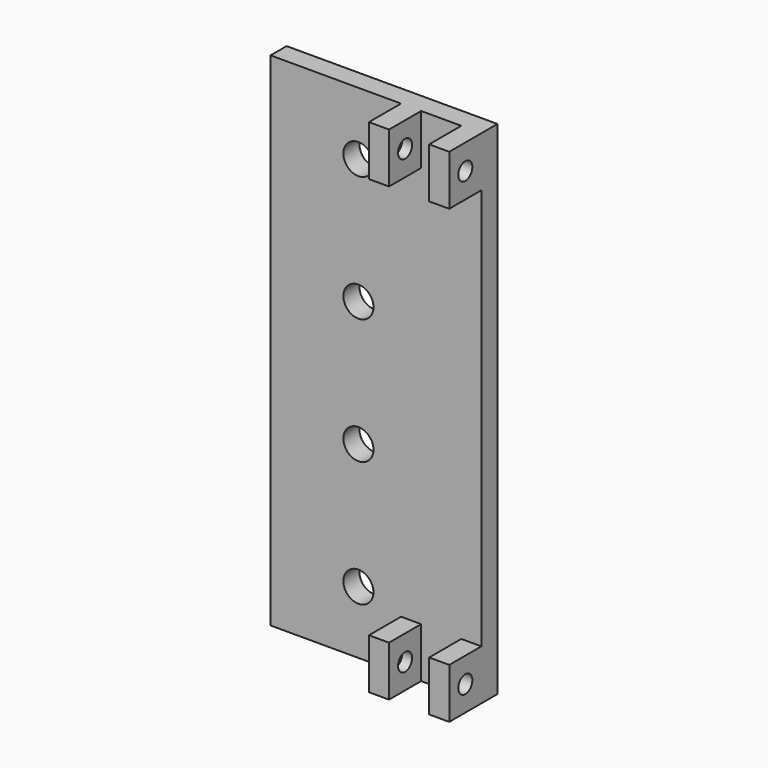
from build123d import *

# Parameters (mm, degrees)
F0_W      = 25
F0_H      = 100
F1_DEPTH  = 4
F2_W      = 4
F2_H      = 10
F3_DEPTH  = 8
F5_DEPTH  = 5
F4_R      = 3
F6_DEPTH  = 25
F8_DEPTH  = 12
F9_W      = 4
F9_H      = 100
F10_DEPTH = 8
F11_W     = 8
F11_H     = 80
F12_DEPTH = 25
F13_R     = 1.75
F14_DEPTH = 2
F15_DEPTH = 25


with BuildPart() as f1:
    # F0 (on Front) → F1 (new body)
    with BuildSketch(Plane.XZ):
        with Locations((12.5, 50)):
            Rectangle(F0_W, F0_H)
    extrude(amount=F1_DEPTH)

    # F2 (on face) → F3 (join)
    with BuildSketch(Plane.XZ.offset(4)):
        with Locations((23, 95)):
            Rectangle(F2_W, F2_H)
        with Locations((23, 5)):
            Rectangle(F2_W, F2_H)
    extrude(amount=F3_DEPTH)

    # F5 (add): a face of the model
    f5_faces = [f1.faces().sort_by_distance(p)[0] for p in [
        (0, -2, 50),
    ]]
    extrude(f5_faces, amount=F5_DEPTH)

    # F4 (on face) → F6 (cut)
    with BuildSketch(Plane(origin=(0, 0, 0), x_dir=(-1, 0, 0), z_dir=(0, 1, 0))):
        with Locations((-12.5, 12.5)):
            Circle(F4_R)
        with Locations((-12.5, 37.5)):
            Circle(F4_R)
        with Locations((-12.5, 62.5)):
            Circle(F4_R)
        with Locations((-12.5, 87.5)):
            Circle(F4_R)
    extrude(amount=-F6_DEPTH, mode=Mode.SUBTRACT)

    # F7 (on face) → F8 (join)
    with BuildSketch(Plane.YZ.offset(25)):
        Polygon((-4, 0), (0, 0), (0, 100), (-4, 100), (-4, 90), (-4, 10), align=None)
    extrude(amount=F8_DEPTH)

    # F9 (on face) → F10 (join, through all)
    with BuildSketch(Plane.XZ.offset(4)):
        with Locations((35, 50)):
            Rectangle(F9_W, F9_H)
    extrude(amount=F10_DEPTH)

    # F11 (on face) → F12 (cut)
    with BuildSketch(Plane(origin=(33, 0, 0), x_dir=(0, -1, 0), z_dir=(-1, 0, 0))):
        with Locations((8, 50)):
            Rectangle(F11_W, F11_H)
    extrude(amount=-F12_DEPTH, mode=Mode.SUBTRACT)

    # F13 (on face) → F14 (cut)
    with BuildSketch(Plane(origin=(21, 0, 0), x_dir=(0, -1, 0), z_dir=(-1, 0, 0))):
        Polygon((11.2331615075, 5), (9.6165807537, 7.8), (6.3834192463, 7.8), (4.7668384925, 5), (6.3834192463, 2.2), (9.6165807537, 2.2), align=None)
        with Locations((8, 5)):
            Circle(F13_R, mode=Mode.SUBTRACT)
        Polygon((9.6165807537, 92.2), (11.2331615075, 95), (9.6165807537, 97.8), (6.3834192463, 97.8), (4.7668384925, 95), (6.3834192463, 92.2), align=None)
        with Locations((8, 95)):
            Circle(F13_R, mode=Mode.SUBTRACT)
    extrude(amount=-F14_DEPTH, mode=Mode.SUBTRACT)

    # F13 (on face) → F15 (cut)
    with BuildSketch(Plane(origin=(21, 0, 0), x_dir=(0, -1, 0), z_dir=(-1, 0, 0))):
        with Locations((8, 5)):
            Circle(F13_R)
        with Locations((8, 95)):
            Circle(F13_R)
    extrude(amount=-F15_DEPTH, mode=Mode.SUBTRACT)


solid = f1.part
